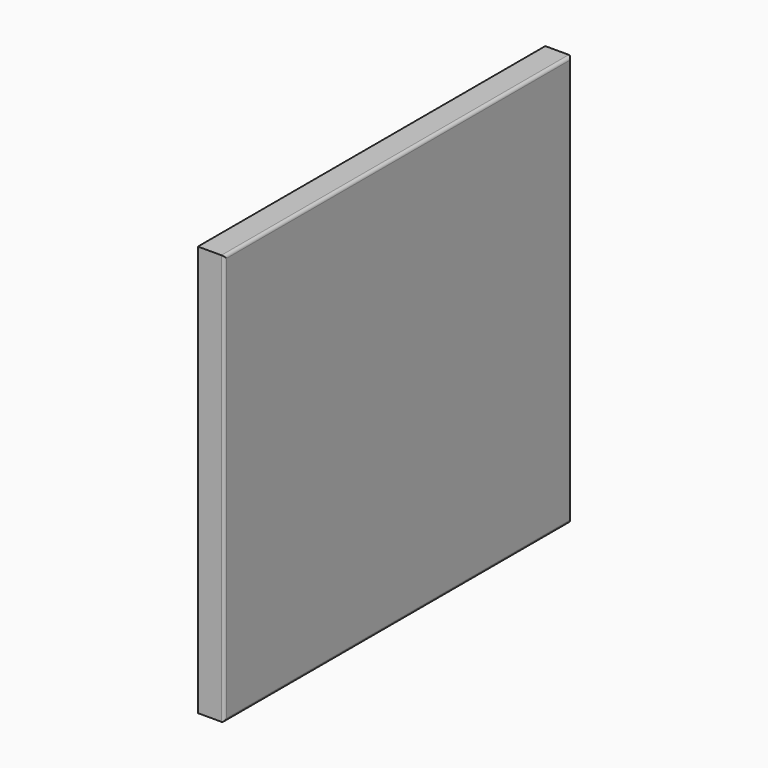
from build123d import *

# Parameters (mm, degrees)
F0_W     = 42.5913929939
F0_H     = 36.7285981774
F1_DEPTH = 18
F2_DEPTH = 282
F3_DEPTH = 296
F4_DEPTH = 280
F5_R     = 2


with BuildPart() as f1:
    # F0 (on Right) → F1 (new body)
    with BuildSketch(Plane.YZ):
        with Locations((-21.295696497, 18.3642990887)):
            Rectangle(F0_W, F0_H)
    extrude(amount=-F1_DEPTH)

    # F2 (add): a face of the model
    f2_faces = [f1.faces().sort_by_distance(p)[0] for p in [
        (-9, -21.295696497, 0),
    ]]
    extrude(f2_faces, amount=-F2_DEPTH)

    # F3 (add): a face of the model
    f3_faces = [f1.faces().sort_by_distance(p)[0] for p in [
        (-9, 0, 141),
    ]]
    extrude(f3_faces, amount=-F3_DEPTH)

    # F4 (intersect): a face of the model
    f4_faces = [f1.faces().sort_by_distance(p)[0] for p in [
        (-9, -148, 0),
    ]]
    extrude(f4_faces, amount=-F4_DEPTH, mode=Mode.INTERSECT)

    # F5
    f5_edges = [f1.edges().sort_by_distance(p)[0] for p in [
        (0, -148, 0),
        (0, -296, 140),
        (0, -148, 280),
        (0, 0, 140),
    ]]
    fillet(f5_edges, radius=F5_R)


solid = f1.part
